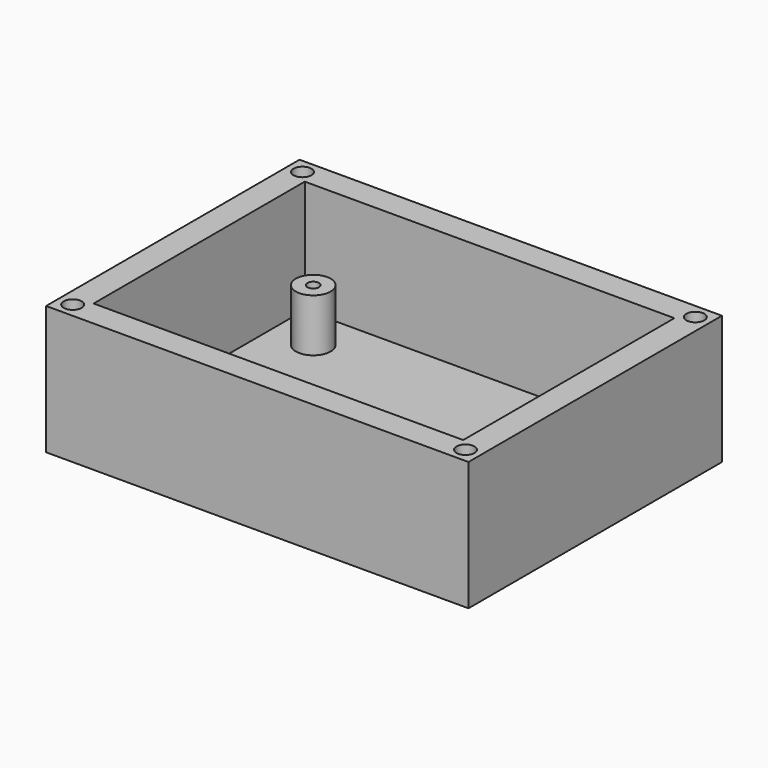
from build123d import *

# Parameters (mm, degrees)
F0_W      = 101.6
F0_H      = 76.2
F1_DEPTH  = 30.988
F2_W      = 88.9
F2_H      = 63.5
F3_DEPTH  = 27.178
F4_R      = 4.191
F5_DEPTH  = 12.7
F6_R      = 1.397
F8_R      = 1.397
F9_R      = 1.397
F7_R      = 1.397
F10_DEPTH = 12.7
F11_R     = 2.159
F12_DEPTH = 12.7


with BuildPart() as f1:
    # F0 (on Top) → F1 (new body)
    with BuildSketch(Plane.XY):
        with Locations((-40.006308, 19.00361)):
            Rectangle(F0_W, F0_H)
    extrude(amount=F1_DEPTH)

    # F2 (on face) → F3 (cut)
    with BuildSketch(Plane.XY.offset(30.988)):
        with Locations((-40.006308, 19.00361)):
            Rectangle(F2_W, F2_H)
    extrude(amount=-F3_DEPTH, mode=Mode.SUBTRACT)

    # F4 (on face) → F5 (join)
    with BuildSketch(Plane.XY.offset(3.81)):
        with Locations((-74.296308, 40.59361)):
            Circle(F4_R)
        with Locations((-5.716308, 40.59361)):
            Circle(F4_R)
        with Locations((-5.716308, -2.58639)):
            Circle(F4_R)
        with Locations((-74.296308, -2.58639)):
            Circle(F4_R)
    extrude(amount=F5_DEPTH)

    # F6 (on face) + F8 (on face) + F9 (on face) + F7 (on face) → F10 (cut)
    with BuildSketch(Plane.XY.offset(16.51)):
        with Locations((-74.296308, 40.59361)):
            Circle(F6_R)
    with BuildSketch(Plane.XY.offset(16.51)):
        with Locations((-74.296308, -2.58639)):
            Circle(F8_R)
    with BuildSketch(Plane.XY.offset(16.51)):
        with Locations((-5.716308, -2.58639)):
            Circle(F9_R)
    with BuildSketch(Plane.XY.offset(16.51)):
        with Locations((-5.716308, 40.59361)):
            Circle(F7_R)
    extrude(amount=-F10_DEPTH, mode=Mode.SUBTRACT)

    # F11 (on face) → F12 (cut)
    with BuildSketch(Plane.XY.offset(30.988)):
        with Locations((-87.250308, 53.54761)):
            Circle(F11_R)
        with Locations((-87.250308, -15.54039)):
            Circle(F11_R)
        with Locations((7.237692, -15.54039)):
            Circle(F11_R)
        with Locations((7.237692, 53.54761)):
            Circle(F11_R)
    extrude(amount=-F12_DEPTH, mode=Mode.SUBTRACT)


solid = f1.part
